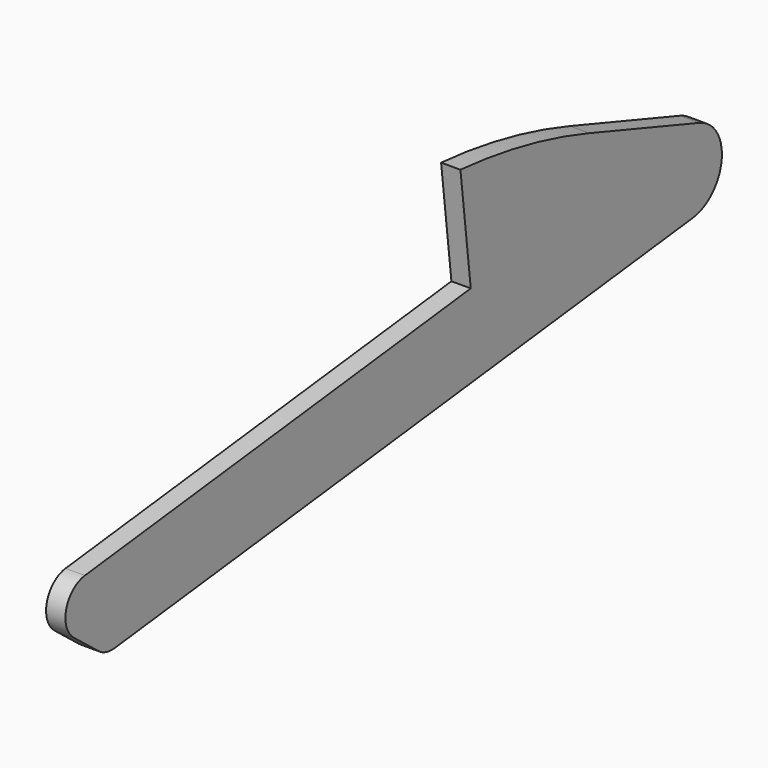
from build123d import *

# Parameters (mm, degrees)
F1_DEPTH = 4.445


with BuildPart() as f1:
    # F0 (on Right) → F1 (new body)
    with BuildSketch(Plane.YZ):
        with BuildLine():
            Line((-71.929009, 10.879191), (-103.618976, 21.664825))
            ThreePointArc((-103.618976, 21.664825), (-121.890076, 26.640612), (-140.637203, 29.312091))
            Line((-140.637203, 29.312091), (-137.672003, 4.085764))
            Line((-137.672003, 4.085764), (-248.578204, -8.950579))
            ThreePointArc((-248.578204, -8.950579), (-253.947109, -13.528608), (-251.772153, -20.240766))
            Line((-251.772153, -20.240766), (-244.724271, -25.806048))
            ThreePointArc((-244.724271, -25.806048), (-242.517575, -26.932648), (-240.047723, -27.129024))
            Line((-240.047723, -27.129024), (-145.021622, -15.95929))
            Line((-145.021622, -15.95929), (-73.886, -7.597734))
            ThreePointArc((-73.886, -7.597734), (-65.525931, 0.858906), (-71.929009, 10.879191))
        make_face()
    extrude(amount=F1_DEPTH)


solid = f1.part
